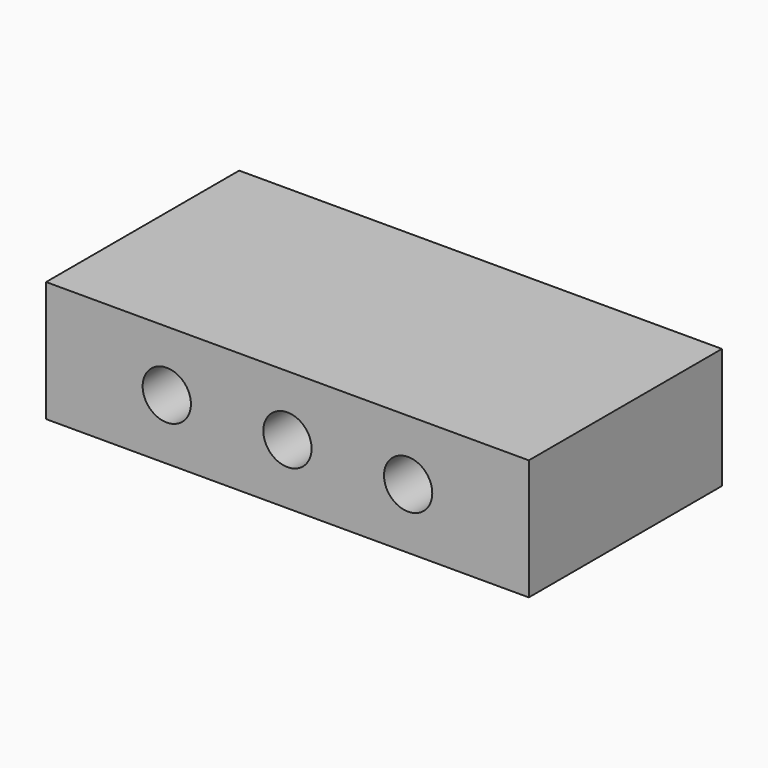
from build123d import *

# Parameters (mm, degrees)
F0_W     = 20
F0_H     = 10
F1_DEPTH = 5
F2_R     = 1
F3_DEPTH = 10


with BuildPart() as f1:
    # F0 (on Top) → F1 (new body)
    with BuildSketch(Plane.XY):
        Rectangle(F0_W, F0_H)
    extrude(amount=F1_DEPTH)

    # F2 (on face) → F3 (cut, through all)
    with BuildSketch(Plane.XZ.offset(5)):
        with Locations((-5, 2.5)):
            Circle(F2_R)
        with Locations((0, 2.5)):
            Circle(F2_R)
        with Locations((5, 2.5)):
            Circle(F2_R)
    extrude(amount=-F3_DEPTH, mode=Mode.SUBTRACT)


solid = f1.part
